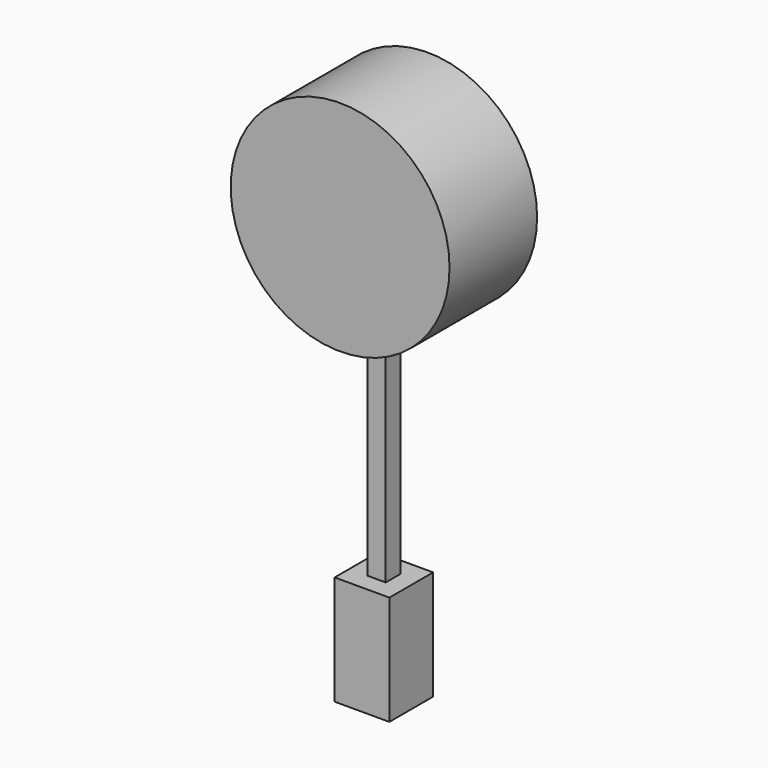
from build123d import *

# Parameters (mm, degrees)
F0_R     = 152.4
F1_DEPTH = 76.2
F3_W     = 25.4
F3_H     = 25.4
F4_DEPTH = 304.8
F5_W     = 76.2
F5_H     = 76.2
F5_W_2   = 25.4
F5_H_2   = 25.4
F6_DEPTH = 152.4


with BuildPart() as f1:
    # F0 (on Front) → F1 (new body, symmetric)
    with BuildSketch(Plane.XZ):
        Circle(F0_R)
    extrude(amount=F1_DEPTH, both=True)

    # F3 (on offset) → F4 (join)
    with BuildSketch(Plane.XY.offset(-152.4)):
        Rectangle(F3_W, F3_H)
    extrude(amount=-F4_DEPTH)


with BuildPart() as f6:
    # F5 (on face) → F6 (new body)
    with BuildSketch(Plane(origin=(0, 0, -457.2), x_dir=(1, 0, 0), z_dir=(0, 0, -1))):
        Rectangle(F5_W, F5_H)
        Rectangle(F5_W_2, F5_H_2, mode=Mode.SUBTRACT)
    extrude(amount=F6_DEPTH)


solid = Compound([f1.part, f6.part])
